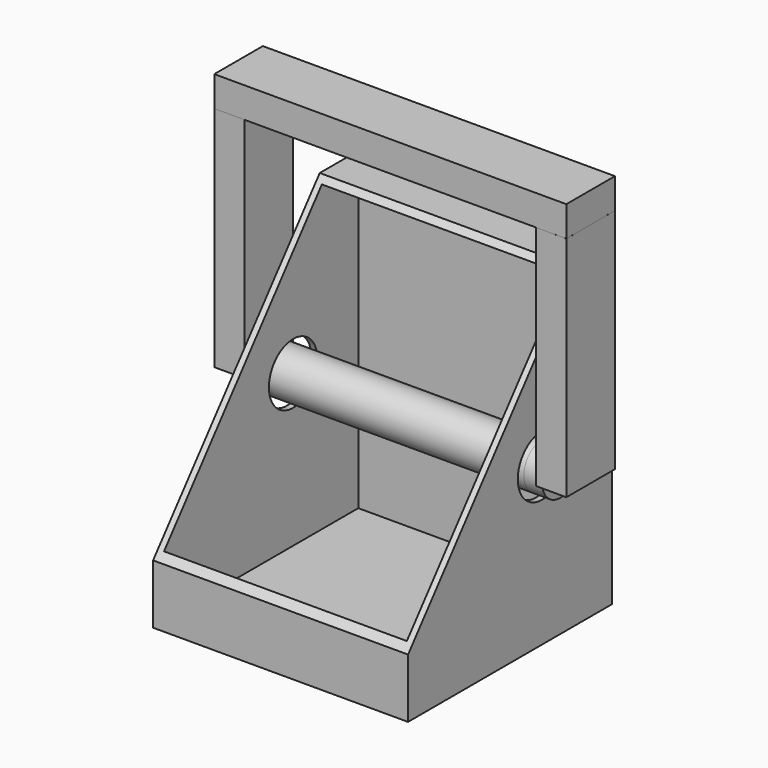
from build123d import *

# Parameters (mm, degrees)
F1_DEPTH  = 101.6
F2_T      = 2.54
F3_R      = 12.7
F4_DEPTH  = 101.6
F5_R      = 12.7
F6_DEPTH  = 101.6
F7_R      = 9.525
F8_DEPTH  = 114.3
F9_DEPTH  = 7.62
F11_DEPTH = 12.7
F13_DEPTH = 12.7
F15_DEPTH = 0.0254
F17_DEPTH = 25.4


with BuildPart() as f1:
    # F0 (on Right) → F1 (new body)
    with BuildSketch(Plane.YZ):
        Polygon((0, 25.4), (0, 0), (101.6, 0), (101.6, 127), (82.55, 127), align=None)
    extrude(amount=-F1_DEPTH)

    # F2
    f2_openings = [f1.faces().sort_by_distance(p)[0] for p in [
        (-50.8, 41.275, 76.2),
    ]]
    offset(amount=F2_T, openings=f2_openings, kind=Kind.INTERSECTION)

    # F3 (on face) → F4 (cut)
    with BuildSketch(Plane.YZ.offset(2.54)):
        with Locations((67.548125, 63.5)):
            Circle(F3_R)
    extrude(amount=-F4_DEPTH, mode=Mode.SUBTRACT)

    # F5 (on face) → F6 (cut)
    with BuildSketch(Plane(origin=(-104.14, 0, 0), x_dir=(0, -1, 0), z_dir=(-1, 0, 0))):
        with Locations((-67.548125, 63.5)):
            Circle(F5_R)
    extrude(amount=-F6_DEPTH, mode=Mode.SUBTRACT)


with BuildPart() as f8:
    # F7 (on face) → F8 (new body)
    with BuildSketch(Plane.YZ.offset(2.54)):
        with Locations((67.548125, 63.5)):
            Circle(F7_R)
    extrude(amount=-F8_DEPTH)

    # F9 (add): a face of the model
    f9_faces = [f8.faces().sort_by_distance(p)[0] for p in [
        (2.54, 67.548125, 63.5),
    ]]
    extrude(f9_faces, amount=F9_DEPTH)

    # F10 (on face) → F11 (join)
    with BuildSketch(Plane.YZ.offset(10.16)):
        Polygon((54.848125, 63.5), (67.548125, 63.5), (80.248125, 63.5), (80.248125, 158.75), (54.848125, 158.75), align=None)
    extrude(amount=F11_DEPTH)


with BuildPart() as f13:
    # F12 (on face) → F13 (new body)
    with BuildSketch(Plane(origin=(-111.76, 0, 0), x_dir=(0, -1, 0), z_dir=(-1, 0, 0))):
        with BuildLine():
            Line((-80.248125, 63.5), (-77.073125, 63.5))
            ThreePointArc((-77.073125, 63.5), (-67.548125, 73.025), (-58.023125, 63.5))
            Line((-58.023125, 63.5), (-54.848125, 63.5))
            Line((-54.848125, 63.5), (-54.848125, 158.7551236153))
            Line((-54.848125, 158.7551236153), (-80.248125, 158.7551236153))
            Line((-80.248125, 158.7551236153), (-80.248125, 63.5))
        make_face()
    extrude(amount=F13_DEPTH)


with BuildPart() as f15:
    # F14 (on face) → F15 (new body)
    with BuildSketch(Plane(origin=(-124.46, 0, 0), x_dir=(0, -1, 0), z_dir=(-1, 0, 0))):
        with BuildLine():
            ThreePointArc((-58.023125, 63.5), (-67.548125, 73.025), (-77.073125, 63.5))
            Line((-77.073125, 63.5), (-58.023125, 63.5))
        make_face()
    extrude(amount=F15_DEPTH)


with BuildPart() as f17:
    # F16 (on face) → F17 (new body)
    with BuildSketch(Plane.XZ.offset(-54.848125)):
        Polygon((-124.46, 171.4551236153), (-124.46, 158.7551236153), (-111.76, 158.7551236153), (22.86, 158.7551236153), (22.86, 171.4551236153), align=None)
    extrude(amount=-F17_DEPTH)


solid = Compound([f1.part, f8.part, f13.part, f15.part, f17.part])
